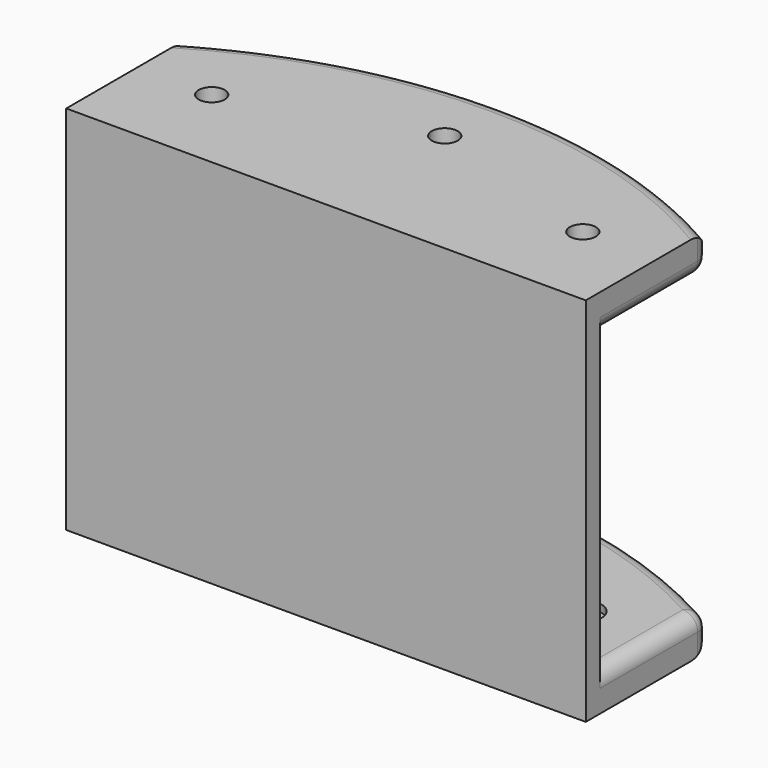
from build123d import *

# Parameters (mm, degrees)
PAD001_DEPTH    = 25
POCKET_DEPTH    = 20
FILLET_R        = 2
SKETCH002_R     = 1.75
POCKET001_DEPTH = 50.001
SKETCH003_R     = 2.5
POCKET002_DEPTH = 1


with BuildPart() as part:
    # Sketch001 → Pad001 (new body, symmetric)
    with BuildSketch(Plane.XY):
        with BuildLine():
            Line((-35, 20), (-35, 0))
            Line((-35, 0), (35, 0))
            Line((35, 0), (35, 20))
            ThreePointArc((35, 20), (0, 29.378222), (-35, 20))
        make_face()
    extrude(amount=PAD001_DEPTH, both=True)

    # Sketch → Pocket (cut, symmetric)
    with BuildSketch(Plane.XY):
        with BuildLine():
            ThreePointArc((37.264344, 1), (0, 11.743197), (-37.264344, 1))
            Line((-37.264344, 1), (-37.264344, 41.61153))
            Line((-37.264344, 41.61153), (37.264344, 41.61153))
            Line((37.264344, 41.61153), (37.264344, 1))
        make_face()
    extrude(amount=POCKET_DEPTH, both=True, mode=Mode.SUBTRACT)

    # Fillet
    fillet_edges = [part.edges().sort_by_distance(p)[0] for p in [
        (0, 29.378222, 25),
        (-35, 20, 22.5),
        (0, 29.378222, 20),
        (0, 29.378222, -20),
        (-35, 20, -22.5),
        (0, 29.378222, -25),
        (35, 20, 22.5),
        (35, 20, -22.5),
        (35, 11.182488, -20),
        (35, 11.182488, 20),
        (-35, 11.182488, -20),
        (-35, 11.182488, 20),
    ]]
    fillet(fillet_edges, radius=FILLET_R)

    # Sketch002 (on DatumPlane) → Pocket001 (cut, through all)
    with BuildSketch(Plane.XY.offset(25)):
        with Locations((0, 20)):
            Circle(SKETCH002_R)
        with Locations((25, 12)):
            Circle(SKETCH002_R)
        with Locations((-25, 12)):
            Circle(SKETCH002_R)
    extrude(amount=-POCKET001_DEPTH, mode=Mode.SUBTRACT)

    # Sketch003 (on DatumPlane) → Pocket002 (cut)
    with BuildSketch(Plane.XY.offset(-20)):
        with Locations((0, 20)):
            Circle(SKETCH003_R)
        with Locations((-25, 12)):
            Circle(SKETCH003_R)
        with Locations((25, 12)):
            Circle(SKETCH003_R)
    extrude(amount=-POCKET002_DEPTH, mode=Mode.SUBTRACT)


solid = part.part
